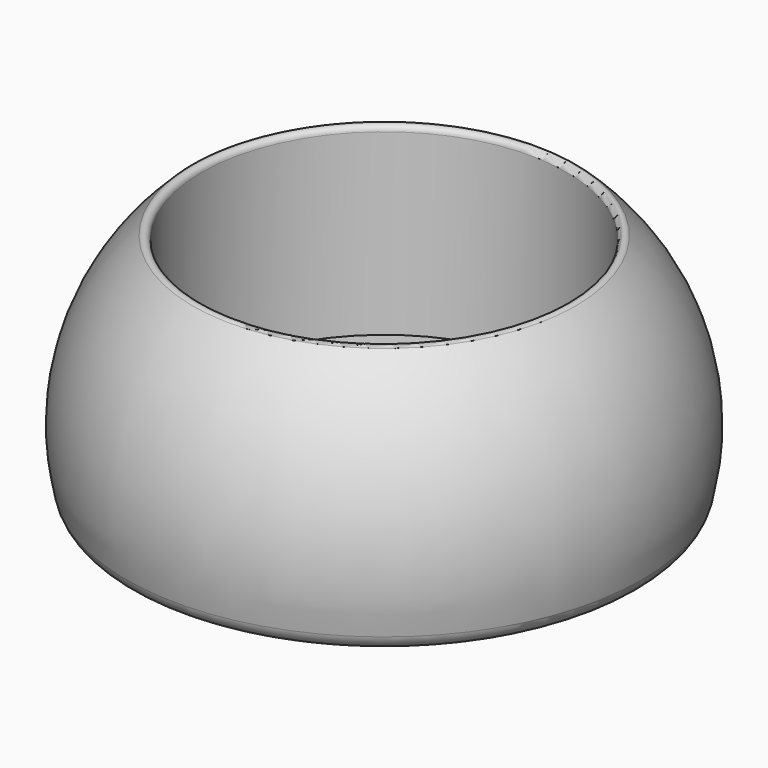
from build123d import *


with BuildPart() as f1:
    # F0 (on Front) → F1 (revolve)
    with BuildSketch(Plane.XZ):
        with BuildLine():
            ThreePointArc((3.5, 0.5), (3.646447, 0.146447), (4, 0))
            Line((4, 0), (22.414915, 0))
            ThreePointArc((22.414915, 0), (23.651436, 0.428053), (24.35866, 1.528984))
            ThreePointArc((24.35866, 1.528984), (24.046093, 12.748498), (18.093276, 22.263704))
            ThreePointArc((18.093276, 22.263704), (17.553496, 22.354653), (17.253862, 21.896555))
            Line((17.253862, 21.896555), (17.253862, 5))
            Line((17.253862, 5), (4.5, 5))
            ThreePointArc((4.5, 5), (3.792893, 4.707107), (3.5, 4))
            Line((3.5, 4), (3.5, 0.5))
        make_face()
    revolve(axis=Axis((0, 0, 11.5), (0, 0, 1)))


solid = f1.part
